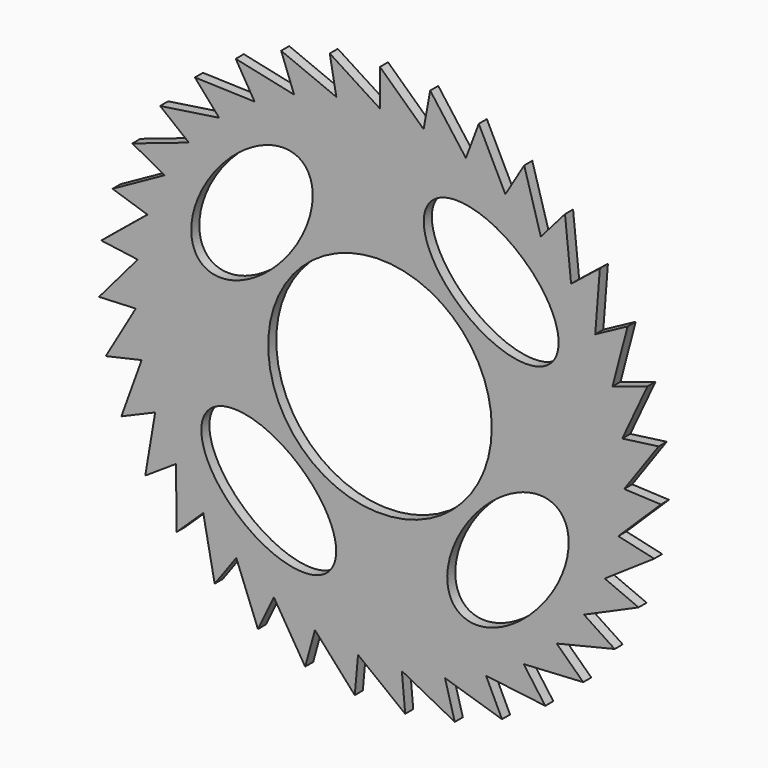
from build123d import *

# Parameters (mm, degrees)
F0_R     = 35.2214
F1_DEPTH = 3.175


with BuildPart() as f1:
    # F0 (on Front) → F1 (new body)
    with BuildSketch(Plane.XZ):
        Polygon((0, 88.612877), (0, 77.026623), (-15.82244, 87.188831), (-13.753635, 75.788774), (-31.136334, 82.962465), (-27.065216, 72.115011), (-45.44948, 76.069617), (-39.506899, 66.123412), (-58.301843, 66.731829), (-50.678798, 58.006552), (-69.280337, 55.249225), (-60.221839, 48.025314), (-78.032103, 41.990865), (-67.8293, 36.500503), (-84.275854, 27.382885), (-73.256672, 23.802536), (-87.810909, 11.894796), (-76.329514, 10.339535), (-88.52365, -3.975602), (-76.949063, -3.455786), (-86.391167, -19.71822), (-75.095405, -17.140036), (-81.482001, -34.827079), (-70.828119, -30.273391), (-73.953937, -48.816566), (-64.28436, -42.433734), (-64.048932, -61.237049), (-55.674448, -53.230222), (-52.085342, -71.689323), (-45.275113, -62.315847), (-38.447686, -79.837443), (-33.420599, -69.39859), (-23.57429, -85.419522), (-20.49192, -74.250804), (-7.943197, -88.256147), (-6.904613, -76.716537), (7.943197, -88.256147), (6.904613, -76.716537), (23.57429, -85.419522), (20.49192, -74.250804), (38.447686, -79.837443), (33.420599, -69.39859), (52.085342, -71.689323), (45.275113, -62.315847), (64.048932, -61.237049), (55.674448, -53.230222), (73.953937, -48.816566), (64.28436, -42.433734), (81.482001, -34.827079), (70.828119, -30.273391), (86.391167, -19.71822), (75.095405, -17.140036), (88.52365, -3.975602), (76.949063, -3.455786), (87.810909, 11.894796), (76.329514, 10.339535), (84.275854, 27.382885), (73.256672, 23.802536), (78.032103, 41.990865), (67.8293, 36.500503), (69.280337, 55.249225), (60.221839, 48.025314), (58.301843, 66.731829), (50.678798, 58.006552), (45.44948, 76.069617), (39.506899, 66.123412), (31.136334, 82.962465), (27.065216, 72.115011), (15.82244, 87.188831), (13.753635, 75.788774), align=None)
        with BuildLine():
            add(Edge.make_bspline(
                [(-54.365881, -24.517354), (-69.651304, -43.199543), (-33.030369, -57.567896), (3.590565, -71.93625), (-17.744946, -38.885707), (-39.080458, -5.835164), (-54.365881, -24.517354)],
                knots=[0, 0, 0, 2.094395, 2.094395, 4.18879, 4.18879, 6.283185, 6.283185, 6.283185], degree=2, weights=[1, 0.5, 1, 0.5, 1, 0.5, 1]))
        make_face(mode=Mode.SUBTRACT)
        with BuildLine():
            add(Edge.make_bspline(
                [(24.517354, -54.365881), (43.199543, -69.651304), (57.567896, -33.030369), (71.93625, 3.590565), (38.885707, -17.744946), (5.835164, -39.080458), (24.517354, -54.365881)],
                knots=[0, 0, 0, 2.094395, 2.094395, 4.18879, 4.18879, 6.283185, 6.283185, 6.283185], degree=2, weights=[1, 0.5, 1, 0.5, 1, 0.5, 1]))
        make_face(mode=Mode.SUBTRACT)
        Circle(F0_R, mode=Mode.SUBTRACT)
        with BuildLine():
            add(Edge.make_bspline(
                [(-24.517354, 54.365881), (-43.199543, 69.651304), (-57.567896, 33.030369), (-71.93625, -3.590565), (-38.885707, 17.744946), (-5.835164, 39.080458), (-24.517354, 54.365881)],
                knots=[0, 0, 0, 2.094395, 2.094395, 4.18879, 4.18879, 6.283185, 6.283185, 6.283185], degree=2, weights=[1, 0.5, 1, 0.5, 1, 0.5, 1]))
        make_face(mode=Mode.SUBTRACT)
        with BuildLine():
            add(Edge.make_bspline(
                [(54.365881, 24.517354), (69.651304, 43.199543), (33.030369, 57.567896), (-3.590565, 71.93625), (17.744946, 38.885707), (39.080458, 5.835164), (54.365881, 24.517354)],
                knots=[0, 0, 0, 2.094395, 2.094395, 4.18879, 4.18879, 6.283185, 6.283185, 6.283185], degree=2, weights=[1, 0.5, 1, 0.5, 1, 0.5, 1]))
        make_face(mode=Mode.SUBTRACT)
    extrude(amount=F1_DEPTH)


solid = f1.part
